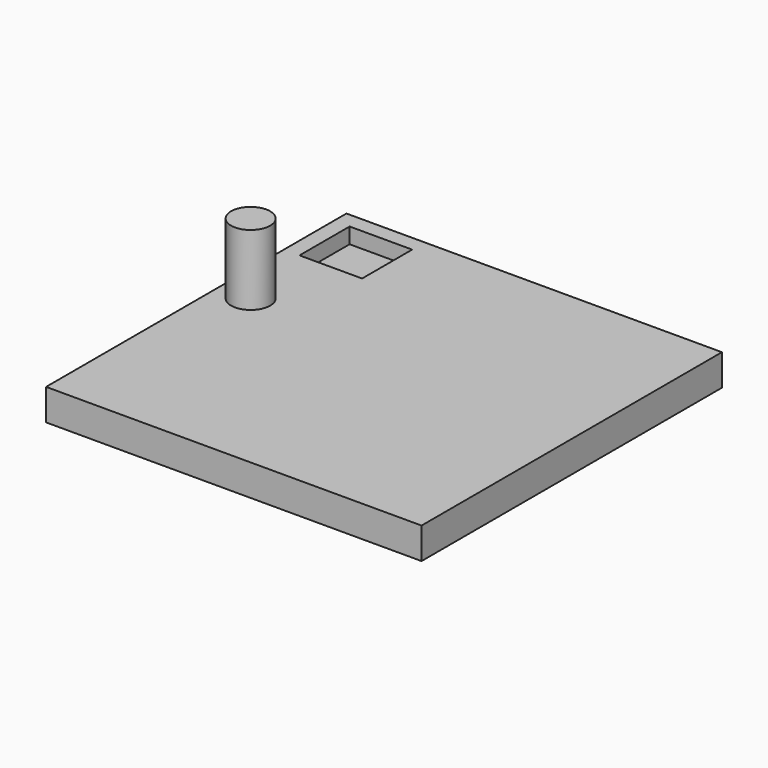
from build123d import *

# Parameters (mm, degrees)
F0_W     = 152.4
F0_H     = 152.4
F1_DEPTH = 6.35
F2_W     = 25.4
F2_H     = 25.4
F3_DEPTH = 6.35
F5_W     = 7.9375
F5_H     = 28.575


with BuildPart() as f1:
    # F0 (on Top) → F1 (new body, symmetric)
    with BuildSketch(Plane.XY):
        Rectangle(F0_W, F0_H)
    extrude(amount=F1_DEPTH, both=True)

    # F2 (on face) → F3 (cut)
    with BuildSketch(Plane.XY.offset(6.35)):
        with Locations((-57.15, 57.15)):
            Rectangle(F2_W, F2_H)
    extrude(amount=-F3_DEPTH, mode=Mode.SUBTRACT)

    # F5 (on offset) → F6 (revolve)
    with BuildSketch(Plane.YZ.offset(-63.5)):
        with Locations((15.678355, 20.6375)):
            Rectangle(F5_W, F5_H)
    revolve(axis=Axis((-63.5, 11.709605, 20.6375), (0, 0, 1)))


solid = f1.part
